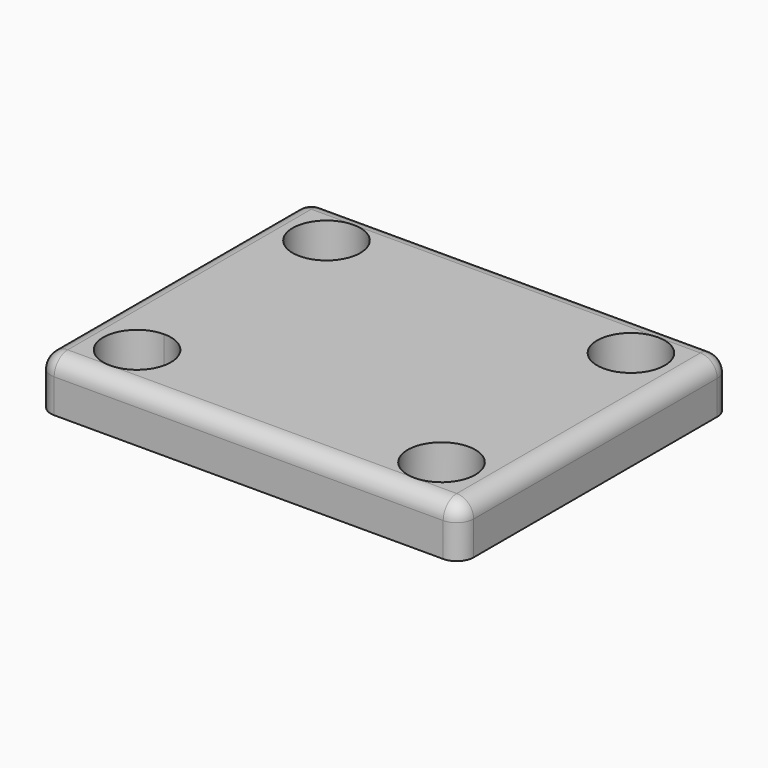
from build123d import *

# Parameters (mm, degrees)
F0_W     = 25
F0_H     = 4.875
F0_H_2   = 10.25
F1_DEPTH = 3
F2_R     = 1
F3_R     = 2
F4_DEPTH = 68


with BuildPart() as f1:
    # F0 (on Top) → F1 (new body)
    with BuildSketch(Plane.XY):
        with Locations((0, 7.5625)):
            Rectangle(F0_W, F0_H)
        with Locations((0, -7.5625)):
            Rectangle(F0_W, F0_H)
        Rectangle(F0_W, F0_H_2)
    extrude(amount=F1_DEPTH)

    # F2
    f2_edges = [f1.edges().sort_by_distance(p)[0] for p in [
        (0, -10, 3),
        (12.5, 0, 3),
        (0, 10, 3),
        (-12.5, 0, 3),
        (12.5, -10, 1.5),
        (-12.5, -10, 1.5),
        (-12.5, 10, 1.5),
        (12.5, 10, 1.5),
    ]]
    fillet(f2_edges, radius=F2_R)

    # F3 (on face) → F4 (cut)
    with BuildSketch(Plane.XY):
        with BuildLine():
            ThreePointArc((-9, -5), (-10.414214, -8.414214), (-7, -7))
            ThreePointArc((-7, -7), (-7.585786, -5.585786), (-9, -5))
        make_face()
        with Locations((9, -7)):
            Circle(F3_R)
        with Locations((9, 7)):
            Circle(F3_R)
        with Locations((-9, 7)):
            Circle(F3_R)
    extrude(amount=F4_DEPTH, mode=Mode.SUBTRACT)


solid = f1.part
